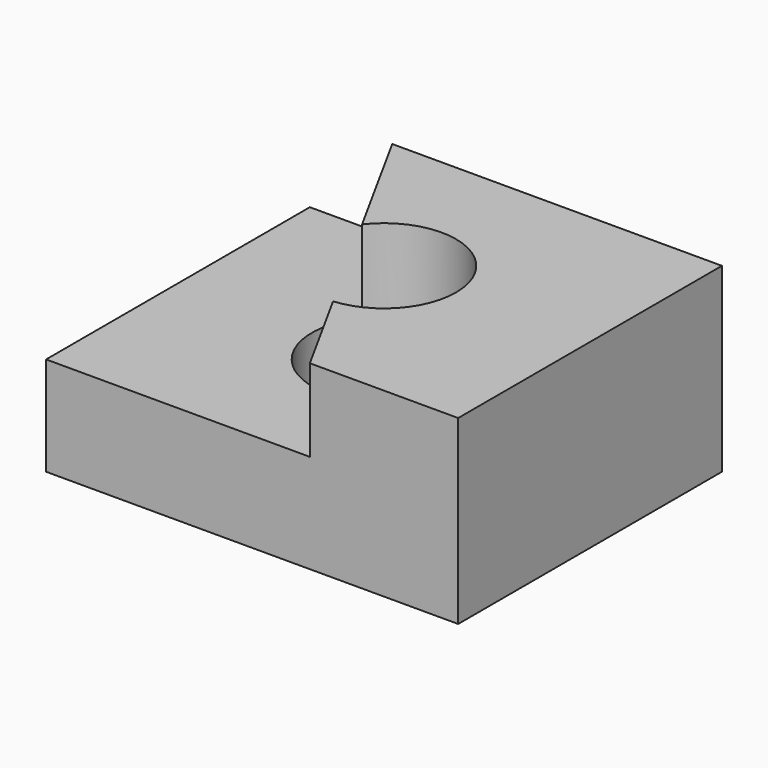
from build123d import *

# Parameters (mm, degrees)
F1_DEPTH = 24
F3_DEPTH = 20


with BuildPart() as f1:
    # F0 (on Top) → F1 (new body)
    with BuildSketch(Plane.XY):
        with BuildLine():
            Line((-1.58542, 17.428036), (-14, 40))
            Line((-14, 40), (-50, 40))
            Line((-50, 40), (-50, -40))
            Line((-50, -40), (30, -40))
            Line((30, -40), (13.869489, -10.671798))
            ThreePointArc((13.869489, -10.671798), (-15.333778, -8.433578), (-1.58542, 17.428036))
        make_face()
        with BuildLine():
            Line((50, -40), (50, 40))
            Line((50, 40), (-14, 40))
            Line((-14, 40), (-1.58542, 17.428036))
            ThreePointArc((-1.58542, 17.428036), (11.800533, 12.922748), (17.5, 0))
            ThreePointArc((17.5, 0), (16.567529, -5.63622), (13.869489, -10.671798))
            Line((13.869489, -10.671798), (30, -40))
            Line((30, -40), (50, -40))
        make_face()
    extrude(amount=F1_DEPTH)

    # F2 (on face) → F3 (join)
    with BuildSketch(Plane.XY.offset(24)):
        with BuildLine():
            Line((50, 40), (-30, 40))
            Line((-30, 40), (-13.869489, 10.671798))
            ThreePointArc((-13.869489, 10.671798), (5.63622, 16.567529), (17.5, 0))
            ThreePointArc((17.5, 0), (12.922748, -11.800533), (1.58542, -17.428036))
            Line((1.58542, -17.428036), (14, -40))
            Line((14, -40), (50, -40))
            Line((50, -40), (50, 40))
        make_face()
    extrude(amount=F3_DEPTH)


solid = f1.part
